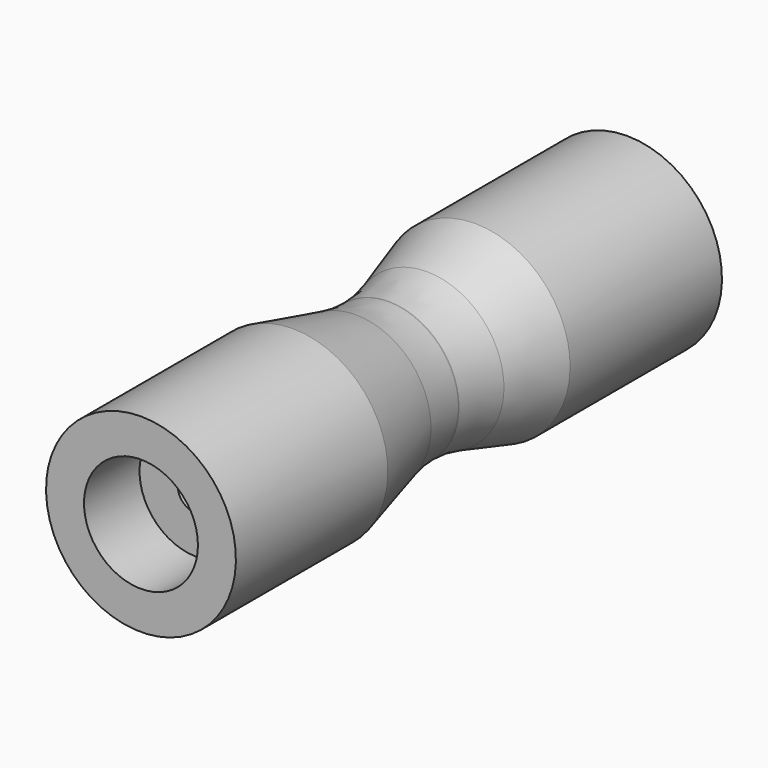
from build123d import *

# Parameters (mm, degrees)
F2_R     = 9.525
F3_DEPTH = 11.6078
F5_D     = 6.35
F6_R     = 27.94


with BuildPart() as f1:
    # F0 (on Right) → F1 (revolve)
    with BuildSketch(Plane.YZ):
        Polygon((0, 15.875), (0, 0), (101.6, 0), (101.6, 15.875), (69.85, 15.875), (55.88, 11.7348), (48.26, 11.7348), (31.75, 15.875), align=None)
    revolve(axis=Axis((0, 35.272012, 0), (0, 1, 0)))

    # F2 (on face) → F3 (cut)
    with BuildSketch(Plane.XZ):
        Circle(F2_R)
    extrude(amount=-F3_DEPTH, mode=Mode.SUBTRACT)

    # F5 (through all)
    with Locations(Plane(origin=(0, 101.6, 0), x_dir=(-1, 0, 0), z_dir=(0, 1, 0))):
        with Locations((0, 0)):
            Hole(F5_D / 2)

    # F6
    f6_edges = [f1.edges().sort_by_distance(p)[0] for p in [
        (0, 48.26, -11.7348),
        (0, 55.88, -11.7348),
    ]]
    fillet(f6_edges, radius=F6_R)


solid = f1.part
